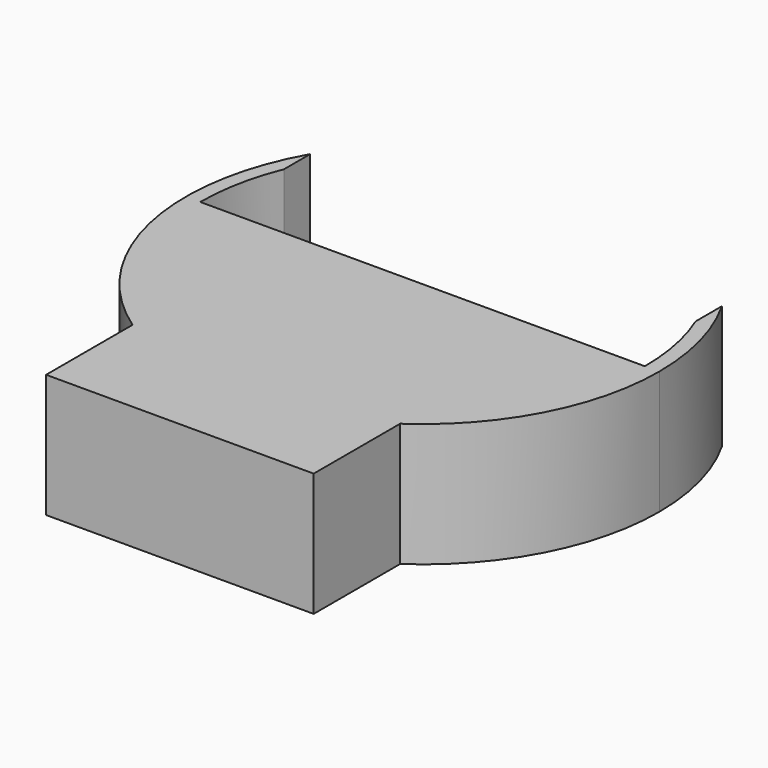
from build123d import *

# Parameters (mm, degrees)
F1_DEPTH = 3
F2_R     = 10.7
F3_DEPTH = 2
F5_DEPTH = 6.001


with BuildPart() as f1:
    # F0 (on Top) → F1 (new body, symmetric)
    with BuildSketch(Plane.XY):
        with BuildLine():
            ThreePointArc((6.5, -9.486833), (10.173495, -5.361903), (11.5, 0))
            ThreePointArc((11.5, 0), (-5.361903, 10.173495), (-6.5, -9.486833))
            ThreePointArc((-6.5, -9.486833), (0, -11.5), (6.5, -9.486833))
        make_face()
        with BuildLine():
            ThreePointArc((6.5, -9.486833), (0, -11.5), (-6.5, -9.486833))
            Line((-6.5, -9.486833), (-6.5, -14.736833))
            Line((-6.5, -14.736833), (6.5, -14.736833))
            Line((6.5, -14.736833), (6.5, -9.486833))
        make_face()
    extrude(amount=F1_DEPTH, both=True)

    # F2 (on Top) → F3 (cut, symmetric)
    with BuildSketch(Plane.XY):
        Circle(F2_R)
    extrude(amount=F3_DEPTH, both=True, mode=Mode.SUBTRACT)

    # F4 (on face) → F5 (cut, through all)
    with BuildSketch(Plane.XY.offset(3)):
        with BuildLine():
            Line((-10.8, 0), (10.8, 0))
            ThreePointArc((10.8, 0), (10.598113, 2.078461), (10, 4.079216))
            Line((10, 4.079216), (10, 14.079216))
            Line((10, 14.079216), (-10, 14.079216))
            Line((-10, 14.079216), (-10, 4.079216))
            ThreePointArc((-10, 4.079216), (-10.598113, 2.078461), (-10.8, 0))
        make_face()
    extrude(amount=-F5_DEPTH, mode=Mode.SUBTRACT)


solid = f1.part
